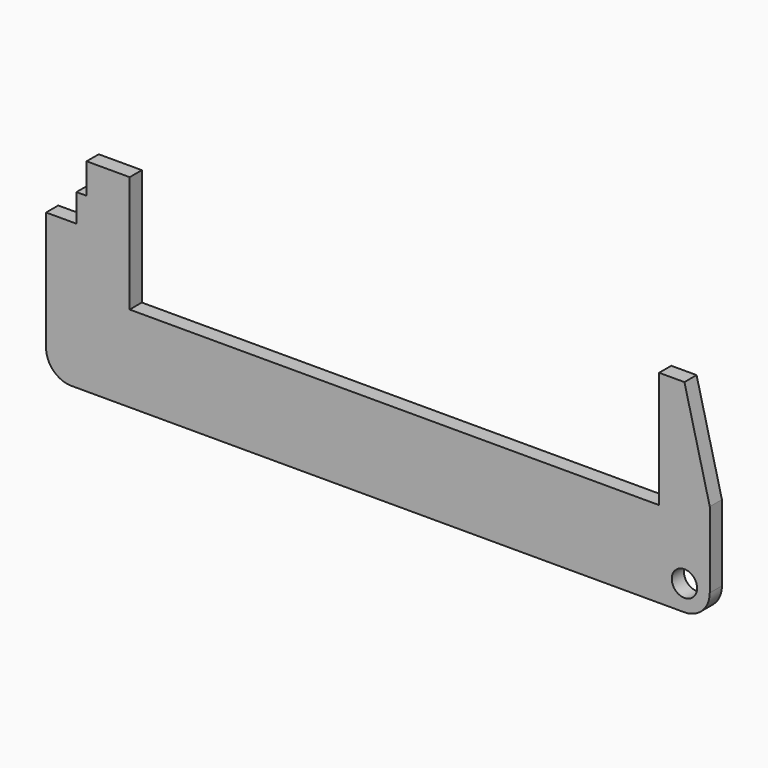
from build123d import *

# Parameters (mm, degrees)
F0_R     = 2.5
F1_DEPTH = 3
F2_W     = 2
F2_H     = 6
F3_DEPTH = 3.001


with BuildPart() as f1:
    # F0 (on Front) → F1 (new body)
    with BuildSketch(Plane.XZ):
        with BuildLine():
            Line((-59.771481, 28.5), (-65.771481, 28.5))
            Line((-65.771481, 28.5), (-65.771481, 5))
            ThreePointArc((-65.771481, 5), (-64.307015, 1.464466), (-60.771481, 0))
            Line((-60.771481, 0), (60.228519, 0))
            ThreePointArc((60.228519, 0), (63.764053, 1.464466), (65.228519, 5))
            Line((65.228519, 5), (65.228519, 20))
            Line((65.228519, 20), (60.228519, 40))
            Line((60.228519, 40), (55.228519, 40))
            Line((55.228519, 40), (55.228519, 17))
            Line((55.228519, 17), (-49.271481, 17))
            Line((-49.271481, 17), (-49.271481, 40))
            Line((-49.271481, 40), (-59.771481, 40))
            Line((-59.771481, 40), (-59.771481, 28.5))
        make_face()
        with Locations((60.228519, 5)):
            Circle(F0_R, mode=Mode.SUBTRACT)
    extrude(amount=F1_DEPTH)

    # F2 (on face) → F3 (cut, through all)
    with BuildSketch(Plane.XZ.offset(3)):
        with Locations((-58.771481, 37)):
            Rectangle(F2_W, F2_H)
    extrude(amount=-F3_DEPTH, mode=Mode.SUBTRACT)


solid = f1.part
